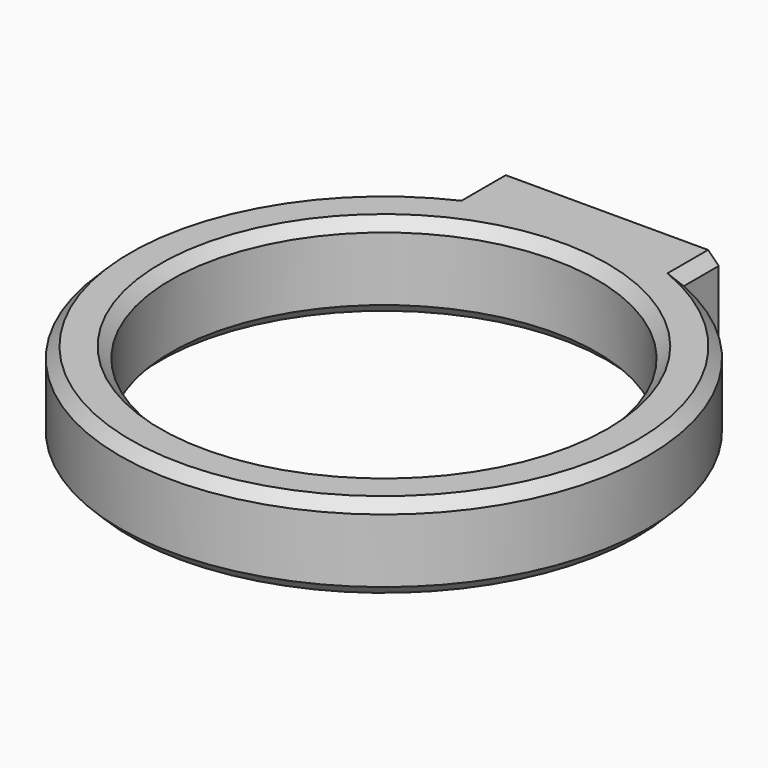
from build123d import *

# Parameters (mm, degrees)
F0_W     = 2.4
F0_H     = 4
F2_W     = 10
F2_H     = 2.052753638
F3_DEPTH = 4
F4_SIZE  = 0.5


with BuildPart() as f1:
    # F0 (on Front) → F1 (revolve)
    with BuildSketch(Plane.XZ):
        with Locations((11.2, 2)):
            Rectangle(F0_W, F0_H)
    revolve(axis=Axis((0, 0, 5.2245724946), (0, 0, 1)))

    # F2 (on face) → F3 (join, through all)
    with BuildSketch(Plane.XY.offset(4)):
        with Locations((0, 12.373623181)):
            Rectangle(F2_W, F2_H)
    extrude(amount=-F3_DEPTH)

    # F4
    f4_edges = [f1.edges().sort_by_distance(p)[0] for p in [
        (0, -12.4, 4),
        (5, 12.373623, 4),
        (0, -12.4, 0),
        (5, 12.373623, 0),
        (-5, 12.373623, 0),
        (-10, 0, 4),
        (-10, 0, 0),
    ]]
    chamfer(f4_edges, length=F4_SIZE)


solid = f1.part
